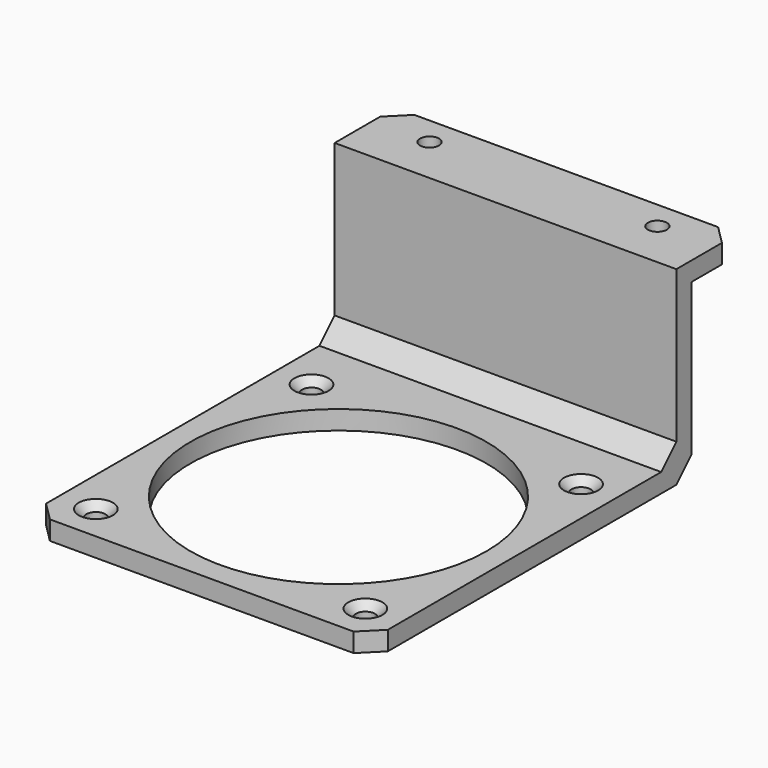
from build123d import *

# Parameters (mm, degrees)
F0_W     = 90
F0_H     = 90
F0_W_2   = 80
F0_H_2   = 80
F0_R     = 2.5
F0_R_2   = 39
F0_H_3   = 10
F1_DEPTH = 5
F0_H_4   = 5
F2_DEPTH = 50
F3_W     = 90
F3_H     = 5
F4_DEPTH = 20
F5_R     = 2.5
F6_DEPTH = 10
F7_SIZE  = 5
F8_SIZE  = 2


with BuildPart() as f1:
    # F0 (on Top) → F1 (new body)
    with BuildSketch(Plane.XY):
        Rectangle(F0_W, F0_H)
        Rectangle(F0_W_2, F0_H_2, mode=Mode.SUBTRACT)
        Rectangle(F0_W_2, F0_H_2)
        with Locations((-35.5, -35.5)):
            Circle(F0_R, mode=Mode.SUBTRACT)
        with Locations((35.5, -35.5)):
            Circle(F0_R, mode=Mode.SUBTRACT)
        Circle(F0_R_2, mode=Mode.SUBTRACT)
        with Locations((-35.5, 35.5)):
            Circle(F0_R, mode=Mode.SUBTRACT)
        with Locations((35.5, 35.5)):
            Circle(F0_R, mode=Mode.SUBTRACT)
        with Locations((0, 50)):
            Rectangle(F0_W, F0_H_3)
    extrude(amount=F1_DEPTH)

    # F0 (on Top) → F2 (join)
    with BuildSketch(Plane.XY):
        with Locations((0, 57.5)):
            Rectangle(F0_W, F0_H_4)
    extrude(amount=F2_DEPTH)

    # F3 (on face) → F4 (join)
    with BuildSketch(Plane.XZ.offset(-55)):
        with Locations((0, 47.5)):
            Rectangle(F3_W, F3_H)
    extrude(amount=-F4_DEPTH)

    # F5 (on face) → F6 (cut)
    with BuildSketch(Plane.XY.offset(50)):
        with Locations((30, 67.5)):
            Circle(F5_R)
        with Locations((-30, 67.5)):
            Circle(F5_R)
    extrude(amount=-F6_DEPTH, mode=Mode.SUBTRACT)

    # F7
    f7_edges = [f1.edges().sort_by_distance(p)[0] for p in [
        (-45, -45, 2.5),
        (45, -45, 2.5),
        (45, 75, 47.5),
        (-45, 75, 47.5),
        (0, 55, 5),
        (0, 60, 0),
    ]]
    chamfer(f7_edges, length=F7_SIZE)

    # F8
    f8_edges = [f1.edges().sort_by_distance(p)[0] for p in [
        (-38, -35.5, 5),
        (33, -35.5, 5),
        (33, 35.5, 5),
        (-38, 35.5, 5),
    ]]
    chamfer(f8_edges, length=F8_SIZE)


solid = f1.part
